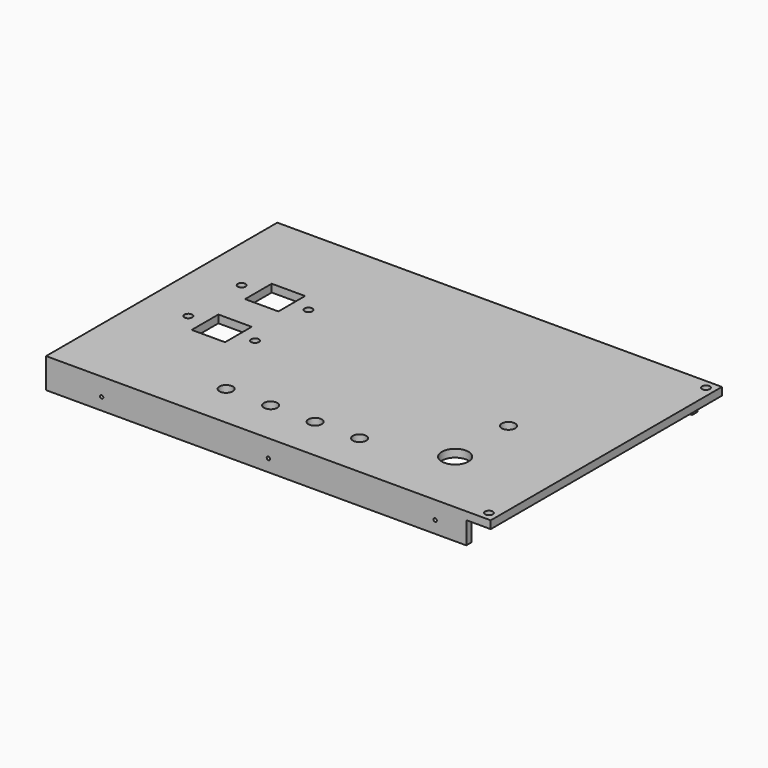
from build123d import *

# Parameters (mm, degrees)
COPYSKETCH010_W   = 200
COPYSKETCH010_H   = 130
COPYSKETCH010_R   = 1.75
COPYSKETCH010_R_2 = 3
COPYSKETCH010_R_3 = 6
COPYSKETCH010_W_2 = 15
COPYSKETCH010_H_2 = 15
PAD_DEPTH         = 3.5
PAD001_DEPTH      = 13.5
SKETCH001_R       = 0.75
POCKET_DEPTH      = 100
SKETCH002_R       = 0.75
POCKET001_DEPTH   = 5


with BuildPart() as part:
    # CopySketch010 → Pad (new body)
    with BuildSketch(Plane(origin=(0, 0, 0), x_dir=(-1, 0, 0), z_dir=(0, 0, -1))):
        with Locations((-100, 0)):
            Rectangle(COPYSKETCH010_W, COPYSKETCH010_H)
        with Locations((-196, 61)):
            Circle(COPYSKETCH010_R, mode=Mode.SUBTRACT)
        with Locations((-196, -61)):
            Circle(COPYSKETCH010_R, mode=Mode.SUBTRACT)
        with Locations((-125, -45)):
            Circle(COPYSKETCH010_R_2, mode=Mode.SUBTRACT)
        with Locations((-105, -45)):
            Circle(COPYSKETCH010_R_2, mode=Mode.SUBTRACT)
        with Locations((-85, -45)):
            Circle(COPYSKETCH010_R_2, mode=Mode.SUBTRACT)
        with Locations((-65, -45)):
            Circle(COPYSKETCH010_R_2, mode=Mode.SUBTRACT)
        with Locations((-50, -10)):
            Circle(COPYSKETCH010_R, mode=Mode.SUBTRACT)
        with Locations((-20, -10)):
            Circle(COPYSKETCH010_R, mode=Mode.SUBTRACT)
        with Locations((-50, 20)):
            Circle(COPYSKETCH010_R, mode=Mode.SUBTRACT)
        with Locations((-20, 20)):
            Circle(COPYSKETCH010_R, mode=Mode.SUBTRACT)
        with Locations((-160, -35)):
            Circle(COPYSKETCH010_R_3, mode=Mode.SUBTRACT)
        with Locations((-160, -5)):
            Circle(COPYSKETCH010_R_2, mode=Mode.SUBTRACT)
        with Locations((-35, -10)):
            Rectangle(COPYSKETCH010_W_2, COPYSKETCH010_H_2, mode=Mode.SUBTRACT)
        with Locations((-35, 20)):
            Rectangle(COPYSKETCH010_W_2, COPYSKETCH010_H_2, mode=Mode.SUBTRACT)
    extrude(amount=PAD_DEPTH)

    # Sketch → Pad001 (join)
    with BuildSketch(Plane.XY):
        Polygon((0, 65), (189, 65), (189, 62), (3, 62), (3, -62), (189, -62), (189, -65), (0, -65), align=None)
    extrude(amount=-PAD001_DEPTH)

    # Sketch001 → Pocket (cut, symmetric)
    with BuildSketch(Plane.XZ.offset(65)):
        with Locations((25, -8)):
            Circle(SKETCH001_R)
        with Locations((100, -8)):
            Circle(SKETCH001_R)
        with Locations((175, -8)):
            Circle(SKETCH001_R)
    extrude(amount=POCKET_DEPTH, both=True, mode=Mode.SUBTRACT)

    # Sketch002 → Pocket001 (cut)
    with BuildSketch(Plane.XZ.offset(-60)):
        with Locations((52, -7)):
            Circle(SKETCH002_R)
    extrude(amount=-POCKET001_DEPTH, mode=Mode.SUBTRACT)


solid = part.part
